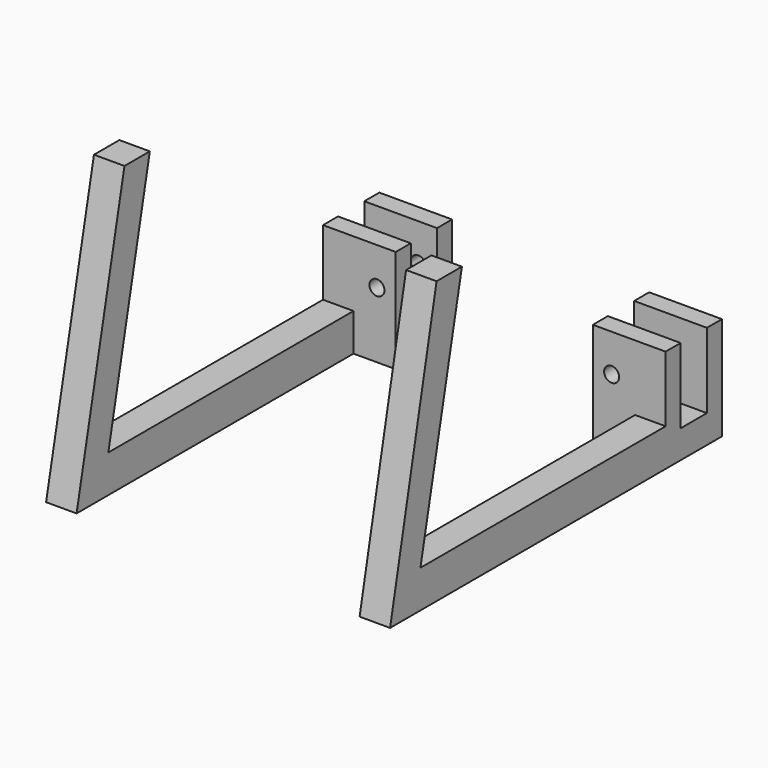
from build123d import *

# Parameters (mm, degrees)
F0_W      = 15.5
F0_H      = 7
F1_DEPTH  = 6
F2_DEPTH  = 22
F0_W_2    = 6.5
F0_H_2    = 61
F3_DEPTH  = 8
F0_H_3    = 6
F4_DEPTH  = 60
F5_DEPTH  = 6
F6_DEPTH  = 22
F7_DEPTH  = 8
F8_DEPTH  = 60
F9_R      = 1.6
F10_DEPTH = 82.001
F11_DEPTH = 82.001
F13_DEPTH = 6.5
F14_DEPTH = 6.5
F16_DEPTH = 6.5
F17_DEPTH = 6.5


with BuildPart() as f1:
    # F0 (on Top) → F1 (new body)
    with BuildSketch(Plane.XY):
        with Locations((-28.75, 43.4073674564)):
            Rectangle(F0_W, F0_H)
    extrude(amount=F1_DEPTH)

    # F0 (on Top) → F2 (join)
    with BuildSketch(Plane.XY):
        Polygon((-21, 50.9073674564), (-30, 50.9073674564), (-36.5, 50.9073674564), (-36.5, 46.9073674564), (-21, 46.9073674564), align=None)
        Polygon((-21, 39.9073674564), (-36.5, 39.9073674564), (-36.5, 35.9073674564), (-30, 35.9073674564), (-21, 35.9073674564), align=None)
    extrude(amount=F2_DEPTH)

    # F0 (on Top) → F3 (join)
    with BuildSketch(Plane.XY):
        with Locations((-33.25, 5.4073674564)):
            Rectangle(F0_W_2, F0_H_2)
    extrude(amount=F3_DEPTH)

    # F0 (on Top) → F4 (join)
    with BuildSketch(Plane.XY):
        with Locations((-33.25, -28.0926325436)):
            Rectangle(F0_W_2, F0_H_3)
    extrude(amount=F4_DEPTH)

    # F9 (on face) → F11 (cut, through all)
    with BuildSketch(Plane(origin=(0, 50.9073674564, 0), x_dir=(-1, 0, 0), z_dir=(0, 1, 0))):
        with Locations((25, 14)):
            Circle(F9_R)
    extrude(amount=-F11_DEPTH, mode=Mode.SUBTRACT)

    # F12 (on face) → F13 (join)
    with BuildSketch(Plane.YZ.offset(-30)):
        Polygon((-18.3392388434, 60), (-25.0926325436, 60), (-25.0926325436, 28.2277806569), align=None)
        Polygon((-25.0926325436, 60), (-31.0926325436, 31.7722193431), (-31.0926325436, 0), (-29.3921800502, 8), (-25.0926325436, 28.2277806569), align=None)
        Polygon((-31.0926325436, 0), (-31.0926325436, 31.7722193431), (-37.8460262438, 0), align=None)
        Polygon((-29.3921800502, 8), (-31.0926325436, 0), (-25.0926325436, 0), (-25.0926325436, 8), align=None)
    extrude(amount=-F13_DEPTH)

    # F12 (on face) → F14 (cut)
    with BuildSketch(Plane.YZ.offset(-30)):
        Polygon((-25.0926325436, 60), (-31.0926325436, 60), (-31.0926325436, 31.7722193431), align=None)
        Polygon((-31.0926325436, 31.7722193431), (-31.0926325436, 60), (-43.8460262438, 0), (-37.8460262438, 0), align=None)
        Polygon((-25.0926325436, 8), (-25.0926325436, 28.2277806569), (-29.3921800502, 8), align=None)
    extrude(amount=-F14_DEPTH, mode=Mode.SUBTRACT)


with BuildPart() as f5:
    # F0 (on Top) → F5 (new body)
    with BuildSketch(Plane.XY):
        with Locations((28.75, 43.4073674564)):
            Rectangle(F0_W, F0_H)
    extrude(amount=F5_DEPTH)

    # F0 (on Top) → F6 (join)
    with BuildSketch(Plane.XY):
        Polygon((21, 46.9073674564), (36.5, 46.9073674564), (36.5, 50.9073674564), (30, 50.9073674564), (21, 50.9073674564), align=None)
        Polygon((30, 35.9073674564), (36.5, 35.9073674564), (36.5, 39.9073674564), (21, 39.9073674564), (21, 35.9073674564), align=None)
    extrude(amount=F6_DEPTH)

    # F0 (on Top) → F7 (join)
    with BuildSketch(Plane.XY):
        with Locations((33.25, 5.4073674564)):
            Rectangle(F0_W_2, F0_H_2)
    extrude(amount=F7_DEPTH)

    # F0 (on Top) → F8 (join)
    with BuildSketch(Plane.XY):
        with Locations((33.25, -28.0926325436)):
            Rectangle(F0_W_2, F0_H_3)
    extrude(amount=F8_DEPTH)

    # F9 (on face) → F10 (cut, through all)
    with BuildSketch(Plane(origin=(0, 50.9073674564, 0), x_dir=(-1, 0, 0), z_dir=(0, 1, 0))):
        with Locations((-25, 14)):
            Circle(F9_R)
    extrude(amount=-F10_DEPTH, mode=Mode.SUBTRACT)

    # F15 (on face) → F16 (join)
    with BuildSketch(Plane.YZ.offset(36.5)):
        Polygon((-18.3392388434, 60), (-25.0926325436, 60), (-25.0926325436, 28.2277806569), align=None)
        Polygon((-25.0926325436, 60), (-31.0926325436, 30.9130792844), (-31.0926325436, 0), (-29.3921800502, 8), (-25.0926325436, 28.2277806569), align=None)
        Polygon((-31.0926325436, 0), (-31.0926325436, 30.9130792844), (-37.4693293937, 0), align=None)
    extrude(amount=-F16_DEPTH)

    # F15 (on face) → F17 (cut)
    with BuildSketch(Plane.YZ.offset(36.5)):
        Polygon((-25.0926325436, 60), (-31.0926325436, 60), (-31.0926325436, 30.9130792844), align=None)
        Polygon((-31.0926325436, 30.9130792844), (-31.0926325436, 60), (-43.8460262438, 0), (-37.4693293937, 0), align=None)
        Polygon((-25.0926325436, 8), (-25.0926325436, 28.2277806569), (-29.3921800502, 8), align=None)
    extrude(amount=-F17_DEPTH, mode=Mode.SUBTRACT)


solid = Compound([f1.part, f5.part])
